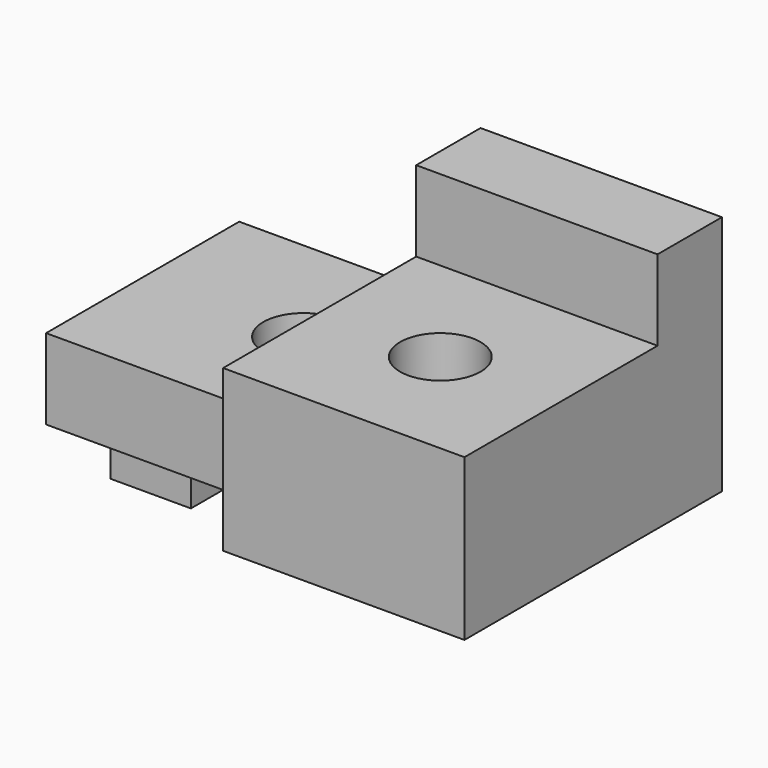
from build123d import *

# Parameters (mm, degrees)
F0_R     = 3.175
F0_W     = 19.05
F0_H     = 6.35
F1_DEPTH = 25.4
F3_DEPTH = 6.35
F4_W     = 6.35
F4_H     = 6.35
F5_DEPTH = 6.35
F6_W     = 19.05
F6_H     = 6.35
F7_DEPTH = 38.1
F8_W     = 19.05
F8_H     = 12.7
F9_DEPTH = 25.4


with BuildPart() as f1:
    # F0 (on Top) → F1 (new body)
    with BuildSketch(Plane.XY):
        Polygon((0, 12.7), (0, 0), (19.05, 0), (19.05, 12.7), (12.7000000394, 12.7), align=None)
        with BuildLine():
            ThreePointArc((15.875, 9.525), (10.4549359558, 7.2799359837), (12.7000000394, 12.7))
            ThreePointArc((12.7000000394, 12.7), (14.9450640442, 11.7700640163), (15.875, 9.525))
        make_face(mode=Mode.SUBTRACT)
        Polygon((19.05, 12.7), (19.05, 0), (19.05, -6.35), (38.1, -6.35), (38.1, 12.7), align=None)
        with Locations((28.575, 3.175)):
            Circle(F0_R, mode=Mode.SUBTRACT)
        Polygon((0, 19.05), (0, 12.7), (12.7000000394, 12.7), (19.05, 12.7), (19.05, 19.05), align=None)
        with Locations((28.575, 15.875)):
            Rectangle(F0_W, F0_H)
    extrude(amount=F1_DEPTH)

    # F2 (on Top) → F3 (cut)
    with BuildSketch(Plane.XY):
        Polygon((38.1, 19.05), (6.35, 19.05), (6.35, 0), (19.05, 0), (19.05, -6.35), (38.1, -6.35), align=None)
    extrude(amount=F3_DEPTH, mode=Mode.SUBTRACT)

    # F4 (on Front) → F5 (cut)
    with BuildSketch(Plane.XZ):
        with Locations((3.175, 3.175)):
            Rectangle(F4_W, F4_H)
    extrude(amount=-F5_DEPTH, mode=Mode.SUBTRACT)

    # F6 (on Right) → F7 (cut)
    with BuildSketch(Plane.YZ):
        with Locations((3.175, 22.225)):
            Rectangle(F6_W, F6_H)
    extrude(amount=F7_DEPTH, mode=Mode.SUBTRACT)

    # F8 (on Front) → F9 (cut)
    with BuildSketch(Plane.XZ):
        with Locations((9.525, 19.05)):
            Rectangle(F8_W, F8_H)
    extrude(amount=-F9_DEPTH, mode=Mode.SUBTRACT)


solid = f1.part
